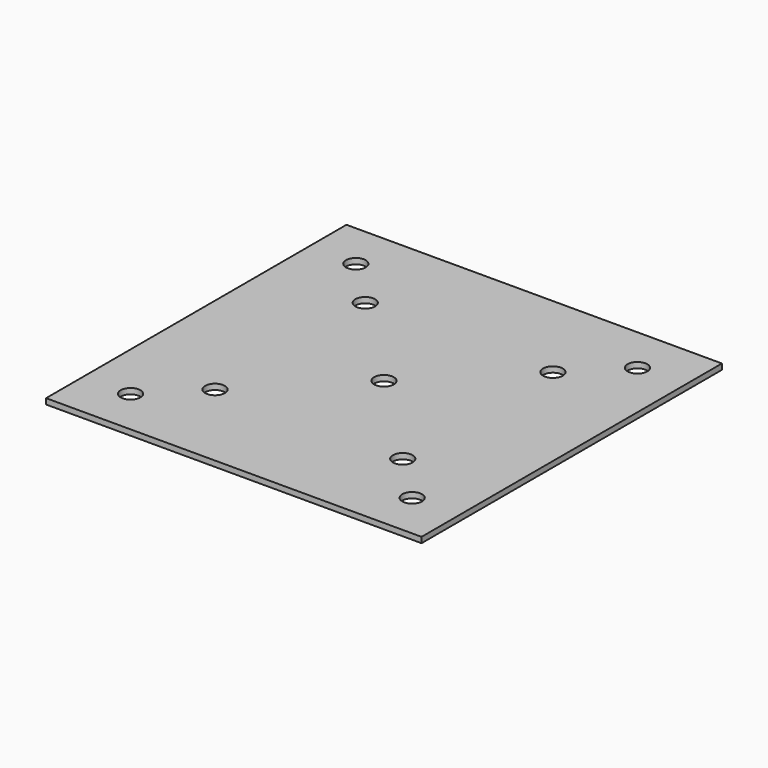
from build123d import *

# Parameters (mm, degrees)
F0_W     = 200
F0_H     = 200
F1_DEPTH = 3
F3_D     = 10.5


with BuildPart() as f1:
    # F0 (on Top) → F1 (new body)
    with BuildSketch(Plane.XY):
        Rectangle(F0_W, F0_H)
    extrude(amount=F1_DEPTH)

    # F3 (through all)
    with Locations(Plane.XY.offset(3)):
        with Locations((75, 75), (50, 50), (-75, 75), (-50, 50), (-50, -50), (-75, -75), (50, -50), (75, -75), (0, 0)):
            Hole(F3_D / 2)


solid = f1.part
